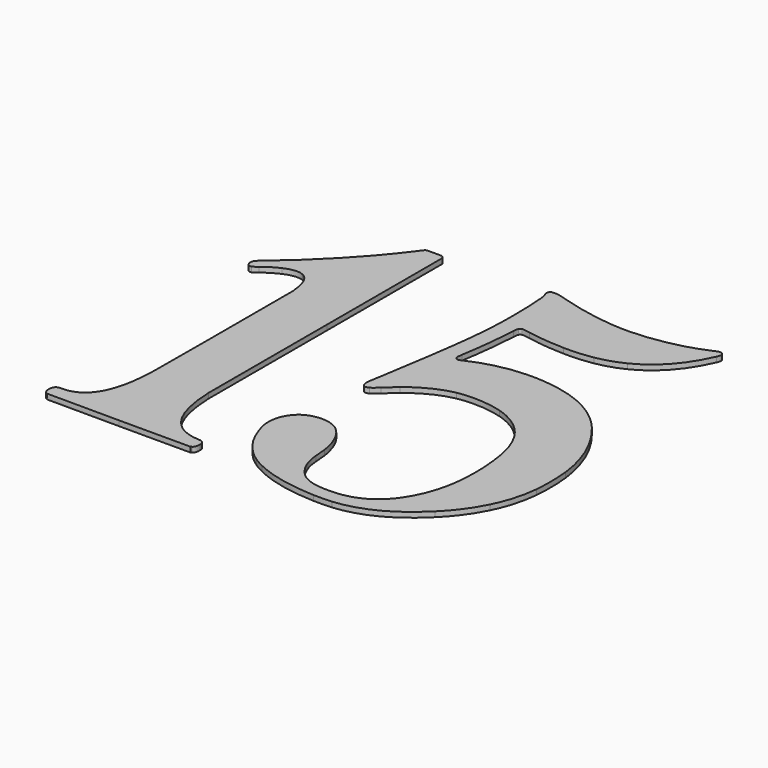
from build123d import *

# Parameters (mm, degrees)
F1_DEPTH = 3


with BuildPart() as f1:
    # F0 (on Top) → F1 (new body)
    with BuildSketch(Plane.XY):
        with BuildLine():
            Line((-24.9749676116, -105.5086148512), (-24.4221198356, -105.1668159472))
            add(Edge.make_bspline(
                [(-22.9280270975, -101.1618743938), (-22.8409736597, -103.1683037275), (-23.3360417907, -104.495337118), (-24.4221198356, -105.1668159472)],
                knots=[0, 0, 0, 0, 1, 1, 1, 1], degree=3))
            add(Edge.make_bspline(
                [(-23.9286103964, -98.3989116804), (-23.2607227611, -99.0023110932), (-22.9892062512, -99.7520678653), (-22.9280270975, -101.1618743938)],
                knots=[0, 0, 0, 0, 1, 1, 1, 1], degree=3))
            add(Edge.make_bspline(
                [(-26.9712664489, -97.6123141569), (-25.2286626116, -97.6944998342), (-24.4997202778, -97.8829498759), (-23.9286103964, -98.3989116804)],
                knots=[0, 0, 0, 0, 1, 1, 1, 1], degree=3))
            add(Edge.make_bspline(
                [(-42.7152474579, -90.0924389353), (-38.8869086879, -94.6798526131), (-33.3802394076, -97.3100327923), (-26.9712664489, -97.6123141569)],
                knots=[0, 0, 0, 0, 1, 1, 1, 1], degree=3))
            add(Edge.make_bspline(
                [(-51.587194383, -59.1471485768), (-50.9801585562, -73.6878099043), (-48.1409620072, -83.5909241028), (-42.7152474579, -90.0924389353)],
                knots=[0, 0, 0, 0, 1, 1, 1, 1], degree=3))
            add(Edge.make_bspline(
                [(-51.526546265, 26.8361350461), (-51.6324040489, -26.1414893441), (-51.6545514788, -57.5337808996), (-51.587194383, -59.1471485768)],
                knots=[0, 0, 0, 0, 1, 1, 1, 1], degree=3))
            add(Edge.make_bspline(
                [(-51.4777906253, 110.7164548895), (-51.395650168, 110.4114122994), (-51.4104563396, 84.927258612), (-51.526546265, 26.8361350461)],
                knots=[0, 0, 0, 0, 1, 1, 1, 1], degree=3))
            add(Edge.make_bspline(
                [(-52.658082486, 112.08199297), (-52.0931837614, 111.8253930807), (-51.6330479347, 111.2930448032), (-51.4777906253, 110.7164548895)],
                knots=[0, 0, 0, 0, 1, 1, 1, 1], degree=3))
            add(Edge.make_bspline(
                [(-57.3497272258, 112.2893193898), (-53.4818821213, 112.2893193898), (-53.0749174941, 112.2713350076), (-52.658082486, 112.08199297)],
                knots=[0, 0, 0, 0, 1, 1, 1, 1], degree=3))
            add(Edge.make_bspline(
                [(-62.0472785871, 112.079343394), (-61.6229214404, 112.2720657319), (-61.236941327, 112.2893193898), (-57.3497272258, 112.2893193898)],
                knots=[0, 0, 0, 0, 1, 1, 1, 1], degree=3))
            add(Edge.make_bspline(
                [(-65.0622759636, 108.5108227417), (-62.672057489, 111.7372511598), (-62.5920627841, 111.831927581), (-62.0472785871, 112.079343394)],
                knots=[0, 0, 0, 0, 1, 1, 1, 1], degree=3))
            add(Edge.make_bspline(
                [(-112.582139181, 58.6482469347), (-94.4993617205, 73.8367702093), (-77.658488667, 91.507895362), (-65.0622759636, 108.5108227417)],
                knots=[0, 0, 0, 0, 1, 1, 1, 1], degree=3))
            add(Edge.make_bspline(
                [(-116.5618967567, 54.7029810678), (-116.1311155587, 55.5788750246), (-115.5469919013, 56.1579372356), (-112.582139181, 58.6482469347)],
                knots=[0, 0, 0, 0, 1, 1, 1, 1], degree=3))
            add(Edge.make_bspline(
                [(-116.9238730162, 53.0594211901), (-116.9248894674, 53.8516047929), (-116.8797230207, 54.0567574479), (-116.5618967567, 54.7029810678)],
                knots=[0, 0, 0, 0, 1, 1, 1, 1], degree=3))
            add(Edge.make_bspline(
                [(-116.6067638705, 51.4769524272), (-116.8695517063, 52.0403264751), (-116.9228917807, 52.3065098179), (-116.9238730162, 53.0594211901)],
                knots=[0, 0, 0, 0, 1, 1, 1, 1], degree=3))
            add(Edge.make_bspline(
                [(-115.4322377688, 50.1067954967), (-115.9262182171, 50.3172777171), (-116.2324873516, 50.6745590929), (-116.6067638705, 51.4769524272)],
                knots=[0, 0, 0, 0, 1, 1, 1, 1], degree=3))
            add(Edge.make_bspline(
                [(-113.8756989146, 50.155525525), (-114.5645926732, 49.9161624861), (-114.9560768295, 49.9039062463), (-115.4322377688, 50.1067954967)],
                knots=[0, 0, 0, 0, 1, 1, 1, 1], degree=3))
            add(Edge.make_bspline(
                [(-111.1480542767, 51.999712449), (-112.2365257839, 51.0194941889), (-113.132375798, 50.4138013582), (-113.8756989146, 50.155525525)],
                knots=[0, 0, 0, 0, 1, 1, 1, 1], degree=3))
            add(Edge.make_bspline(
                [(-102.1957220733, 57.5166963073), (-105.022568741, 56.2777520142), (-109.3782275567, 53.5935246466), (-111.1480542767, 51.999712449)],
                knots=[0, 0, 0, 0, 1, 1, 1, 1], degree=3))
            add(Edge.make_bspline(
                [(-94.8902708216, 59.3258808958), (-97.0508177588, 59.3258808958), (-99.3889335082, 58.746850699), (-102.1957220733, 57.5166963073)],
                knots=[0, 0, 0, 0, 1, 1, 1, 1], degree=3))
            add(Edge.make_bspline(
                [(-90.9390971326, 58.4756727394), (-92.2657399498, 59.1120083706), (-93.259670696, 59.3258808958), (-94.8902708216, 59.3258808958)],
                knots=[0, 0, 0, 0, 1, 1, 1, 1], degree=3))
            add(Edge.make_bspline(
                [(-84.2228758047, 43.232071419), (-84.9117779671, 51.6382904354), (-87.1164152734, 56.6420921229), (-90.9390971326, 58.4756727394)],
                knots=[0, 0, 0, 0, 1, 1, 1, 1], degree=3))
            add(Edge.make_bspline(
                [(-84.2261736685, -15.0444632397), (-84.0706466394, 35.4298340737), (-84.07031009, 41.3703731227), (-84.2228758047, 43.232071419)],
                knots=[0, 0, 0, 0, 1, 1, 1, 1], degree=3))
            add(Edge.make_bspline(
                [(-84.8578688401, -65.8105508614), (-84.3655383241, -60.1810378582), (-84.3651609566, -60.1507248041), (-84.2261736685, -15.0444632397)],
                knots=[0, 0, 0, 0, 1, 1, 1, 1], degree=3))
            add(Edge.make_bspline(
                [(-102.1929108256, -96.9631404276), (-92.2759993033, -94.8331670602), (-86.4860779044, -84.4281749082), (-84.8578688401, -65.8105508614)],
                knots=[0, 0, 0, 0, 1, 1, 1, 1], degree=3))
            add(Edge.make_bspline(
                [(-106.3652542786, -97.3652148844), (-104.3238330141, -97.318751462), (-103.461803611, -97.2356849938), (-102.1929108256, -96.9631404276)],
                knots=[0, 0, 0, 0, 1, 1, 1, 1], degree=3))
            add(Edge.make_bspline(
                [(-109.3490838216, -98.1267284746), (-108.6864773303, -97.5434888095), (-108.1468390172, -97.4057596798), (-106.3652542786, -97.3652148844)],
                knots=[0, 0, 0, 0, 1, 1, 1, 1], degree=3))
            add(Edge.make_bspline(
                [(-110.4958055826, -102.0360900057), (-110.6429741019, -100.4120383866), (-110.1896665058, -98.8666484807), (-109.3490838216, -98.1267284746)],
                knots=[0, 0, 0, 0, 1, 1, 1, 1], degree=3))
            add(Edge.make_bspline(
                [(-108.2985127361, -105.4094768498), (-109.6725649955, -104.9173904422), (-110.3255532178, -103.914898296), (-110.4958055826, -102.0360900057)],
                knots=[0, 0, 0, 0, 1, 1, 1, 1], degree=3))
            add(Edge.make_bspline(
                [(-66.4324521026, -105.5322077227), (-100.1377234512, -105.5513958391), (-107.966332101, -105.5284808686), (-108.2985127361, -105.4094768498)],
                knots=[0, 0, 0, 0, 1, 1, 1, 1], degree=3))
            Line((-66.4324521026, -105.5322077227), (-24.9749676116, -105.5086148512))
        make_face()
    extrude(amount=F1_DEPTH)


with BuildPart() as f1b:
    # F0 (on Top) → F1, piece 2 (new body)
    with BuildSketch(Plane.XY):
        with BuildLine():
            add(Edge.make_bspline(
                [(48.4811159385, -107.7090506927), (34.0461319148, -107.1817834704), (22.0135977945, -104.5645462358), (12.1502156307, -99.8065724566)],
                knots=[0, 0, 0, 0, 1, 1, 1, 1], degree=3))
            add(Edge.make_bspline(
                [(58.8427848619, -107.5369995295), (56.5669735658, -107.7542715636), (51.859291308, -107.8324478613), (48.4811159385, -107.7090506927)],
                knots=[0, 0, 0, 0, 1, 1, 1, 1], degree=3))
            add(Edge.make_bspline(
                [(101.4468714609, -85.8007565149), (88.2155688792, -98.9744715369), (74.3308350785, -106.0583452436), (58.8427848619, -107.5369995295)],
                knots=[0, 0, 0, 0, 1, 1, 1, 1], degree=3))
            add(Edge.make_bspline(
                [(116.7308294932, -64.9070386466), (112.849928594, -72.7041449144), (108.1562169369, -79.1206055965), (101.4468714609, -85.8007565149)],
                knots=[0, 0, 0, 0, 1, 1, 1, 1], degree=3))
            add(Edge.make_bspline(
                [(123.852989793, -39.891046748), (122.9661925969, -48.8636787613), (120.6274173549, -57.0784107882), (116.7308294932, -64.9070386466)],
                knots=[0, 0, 0, 0, 1, 1, 1, 1], degree=3))
            add(Edge.make_bspline(
                [(123.6309740536, -18.6020422357), (124.3605602731, -24.6480516967), (124.4559033902, -33.7906683559), (123.852989793, -39.891046748)],
                knots=[0, 0, 0, 0, 1, 1, 1, 1], degree=3))
            add(Edge.make_bspline(
                [(110.9892923692, 15.731417528), (117.8945756103, 5.3060295235), (122.1359777143, -6.2131743603), (123.6309740536, -18.6020422357)],
                knots=[0, 0, 0, 0, 1, 1, 1, 1], degree=3))
            add(Edge.make_bspline(
                [(105.7470244409, 22.8246878053), (107.3598162624, 20.8890374862), (109.4153289813, 18.1077446371), (110.9892923692, 15.731417528)],
                knots=[0, 0, 0, 0, 1, 1, 1, 1], degree=3))
            add(Edge.make_bspline(
                [(60.9538862532, 44.9176543481), (79.9645831614, 43.2135279886), (94.894353191, 35.8498316855), (105.7470244409, 22.8246878053)],
                knots=[0, 0, 0, 0, 1, 1, 1, 1], degree=3))
            add(Edge.make_bspline(
                [(18.5347033219, 37.8021069834), (31.5894823554, 43.9009286846), (45.7666039294, 46.2790497899), (60.9538862532, 44.9176543481)],
                knots=[0, 0, 0, 0, 1, 1, 1, 1], degree=3))
            add(Edge.make_bspline(
                [(16.3803127171, 37.0773208943), (16.8845629236, 37.0773208943), (17.2345154465, 37.1946981911), (18.5347033219, 37.8021069834)],
                knots=[0, 0, 0, 0, 1, 1, 1, 1], degree=3))
            add(Edge.make_bspline(
                [(14.8138710676, 38.0205759487), (15.0984885923, 37.377139966), (15.5954879805, 37.0778627348), (16.3803127171, 37.0773208943)],
                knots=[0, 0, 0, 0, 1, 1, 1, 1], degree=3))
            add(Edge.make_bspline(
                [(14.8601872246, 42.1026809503), (14.4283423546, 39.5377333238), (14.4212047866, 38.9082767458), (14.8138710676, 38.0205759487)],
                knots=[0, 0, 0, 0, 1, 1, 1, 1], degree=3))
            add(Edge.make_bspline(
                [(18.5914553107, 74.8668361938), (17.9059154407, 64.0618477074), (16.5442886963, 52.1054185656), (14.8601872246, 42.1026809503)],
                knots=[0, 0, 0, 0, 1, 1, 1, 1], degree=3))
            add(Edge.make_bspline(
                [(18.9832295958, 77.8208092853), (18.7872914306, 77.436726414), (18.72442953, 76.9628272785), (18.5914553107, 74.8668361938)],
                knots=[0, 0, 0, 0, 1, 1, 1, 1], degree=3))
            add(Edge.make_bspline(
                [(20.387411628, 78.8564893616), (19.6792161025, 78.7135831341), (19.2935857443, 78.4291552936), (18.9832295958, 77.8208092853)],
                knots=[0, 0, 0, 0, 1, 1, 1, 1], degree=3))
            add(Edge.make_bspline(
                [(24.9828096496, 78.3103693717), (21.0662765355, 78.986325388), (21.0439598304, 78.9889769649), (20.387411628, 78.8564893616)],
                knots=[0, 0, 0, 0, 1, 1, 1, 1], degree=3))
            add(Edge.make_bspline(
                [(46.6701389544, 76.1857627862), (39.5339740388, 76.2874215064), (32.9887065871, 76.9286305006), (24.9828096496, 78.3103693717)],
                knots=[0, 0, 0, 0, 1, 1, 1, 1], degree=3))
            add(Edge.make_bspline(
                [(63.2691358537, 77.353101698), (57.8036668598, 76.4017642563), (53.3742324995, 76.0902591979), (46.6701389544, 76.1857627862)],
                knots=[0, 0, 0, 0, 1, 1, 1, 1], degree=3))
            add(Edge.make_bspline(
                [(78.8547201598, 82.4169236248), (73.9084656141, 79.9446295217), (69.0052181566, 78.351544847), (63.2691358537, 77.353101698)],
                knots=[0, 0, 0, 0, 1, 1, 1, 1], degree=3))
            add(Edge.make_bspline(
                [(106.1840984318, 112.8025051621), (99.9463186555, 98.528364127), (90.8462912991, 88.4106943002), (78.8547201598, 82.4169236248)],
                knots=[0, 0, 0, 0, 1, 1, 1, 1], degree=3))
            add(Edge.make_bspline(
                [(106.7487934661, 115.887623261), (107.09054715, 115.0931998641), (107.0223768933, 114.7207913743), (106.1840984318, 112.8025051621)],
                knots=[0, 0, 0, 0, 1, 1, 1, 1], degree=3))
            add(Edge.make_bspline(
                [(104.4502472793, 117.3497598158), (105.4232847522, 117.4605621943), (106.3165872356, 116.8923219866), (106.7487934661, 115.887623261)],
                knots=[0, 0, 0, 0, 1, 1, 1, 1], degree=3))
            add(Edge.make_bspline(
                [(100.651950243, 115.8563693893), (103.6951033162, 117.1924403911), (103.950481063, 117.2928489565), (104.4502472793, 117.3497598158)],
                knots=[0, 0, 0, 0, 1, 1, 1, 1], degree=3))
            add(Edge.make_bspline(
                [(59.7680267213, 107.3612513159), (73.928828652, 107.6295223853), (89.0883842696, 110.7794692578), (100.651950243, 115.8563693893)],
                knots=[0, 0, 0, 0, 1, 1, 1, 1], degree=3))
            add(Edge.make_bspline(
                [(17.9241211211, 113.9285557485), (33.075036904, 109.3967783643), (47.5225913069, 107.1292663517), (59.7680267213, 107.3612513159)],
                knots=[0, 0, 0, 0, 1, 1, 1, 1], degree=3))
            add(Edge.make_bspline(
                [(9.9111546459, 115.682450197), (11.6716932434, 115.682450197), (13.120881251, 115.3652486103), (17.9241211211, 113.9285557485)],
                knots=[0, 0, 0, 0, 1, 1, 1, 1], degree=3))
            add(Edge.make_bspline(
                [(7.376588504, 114.9450565122), (7.8350868038, 115.4672594868), (8.5747358897, 115.682450197), (9.9111546459, 115.682450197)],
                knots=[0, 0, 0, 0, 1, 1, 1, 1], degree=3))
            add(Edge.make_bspline(
                [(6.9379898363, 113.2089331512), (6.8695938794, 114.1647497808), (6.9416038403, 114.4495854023), (7.376588504, 114.9450565122)],
                knots=[0, 0, 0, 0, 1, 1, 1, 1], degree=3))
            add(Edge.make_bspline(
                [(7.4146373916, 111.4957039515), (7.1099845745, 112.182662051), (6.9772924804, 112.6596057377), (6.9379898363, 113.2089331512)],
                knots=[0, 0, 0, 0, 1, 1, 1, 1], degree=3))
            add(Edge.make_bspline(
                [(8.2078422476, 107.2684933462), (7.9989275229, 110.0704437639), (7.9638711635, 110.2572414722), (7.4146373916, 111.4957039515)],
                knots=[0, 0, 0, 0, 1, 1, 1, 1], degree=3))
            add(Edge.make_bspline(
                [(8.9723827813, 86.6006533315), (8.9710273797, 94.44730599), (8.7812787617, 99.577564204), (8.2078422476, 107.2684933462)],
                knots=[0, 0, 0, 0, 1, 1, 1, 1], degree=3))
            add(Edge.make_bspline(
                [(7.5853223484, 59.1000030422), (8.5730079228, 68.7190211474), (8.9740543232, 76.6705027332), (8.9723827813, 86.6006533315)],
                knots=[0, 0, 0, 0, 1, 1, 1, 1], degree=3))
            add(Edge.make_bspline(
                [(-0.6088097354, 2.74343174), (2.7544462122, 22.6603844809), (6.4619405466, 48.1592855138), (7.5853223484, 59.1000030422)],
                knots=[0, 0, 0, 0, 1, 1, 1, 1], degree=3))
            add(Edge.make_bspline(
                [(-1.9267855058, -5.0875335558), (-1.8574747429, -4.6627814338), (-1.2643871069, -1.1388469706), (-0.6088097354, 2.74343174)],
                knots=[0, 0, 0, 0, 1, 1, 1, 1], degree=3))
            add(Edge.make_bspline(
                [(-1.5893125218, -8.4902958379), (-1.9149946726, -7.5967900643), (-2.0742389516, -5.9911134007), (-1.9267855058, -5.0875335558)],
                knots=[0, 0, 0, 0, 1, 1, 1, 1], degree=3))
            add(Edge.make_bspline(
                [(2.211198297, -9.3926899565), (0.285542814, -10.3791557896), (-1.0132220298, -10.0707757181), (-1.5893125218, -8.4902958379)],
                knots=[0, 0, 0, 0, 1, 1, 1, 1], degree=3))
            add(Edge.make_bspline(
                [(6.2349329915, -6.1289669857), (3.9425987619, -8.371122544), (3.4921412308, -8.7364915094), (2.211198297, -9.3926899565)],
                knots=[0, 0, 0, 0, 1, 1, 1, 1], degree=3))
            add(Edge.make_bspline(
                [(12.7119857668, -0.3195873504), (10.5336857501, -2.0760937583), (8.6641271651, -3.7529444117), (6.2349329915, -6.1289669857)],
                knots=[0, 0, 0, 0, 1, 1, 1, 1], degree=3))
            add(Edge.make_bspline(
                [(36.2498316049, 11.3826893884), (28.2539639188, 9.7634262946), (20.3316196653, 5.824679321), (12.7119857668, -0.3195873504)],
                knots=[0, 0, 0, 0, 1, 1, 1, 1], degree=3))
            add(Edge.make_bspline(
                [(62.4113979553, 9.9184350937), (54.5747745481, 12.3084166632), (43.7991274846, 12.9115335506), (36.2498316049, 11.3826893884)],
                knots=[0, 0, 0, 0, 1, 1, 1, 1], degree=3))
            add(Edge.make_bspline(
                [(75.6380700818, 3.1441167801), (71.982640856, 6.0564629959), (67.431492074, 8.387422369), (62.4113979553, 9.9184350937)],
                knots=[0, 0, 0, 0, 1, 1, 1, 1], degree=3))
            add(Edge.make_bspline(
                [(80.9550923891, -2.1694151781), (79.8249679946, -0.7419676197), (77.109032954, 1.9721714238), (75.6380700818, 3.1441167801)],
                knots=[0, 0, 0, 0, 1, 1, 1, 1], degree=3))
            add(Edge.make_bspline(
                [(91.1561620321, -31.4206204338), (90.0039242229, -18.7638724624), (86.7845749468, -9.5325084136), (80.9550923891, -2.1694151781)],
                knots=[0, 0, 0, 0, 1, 1, 1, 1], degree=3))
            add(Edge.make_bspline(
                [(91.8502400917, -44.8603631296), (91.8489975402, -39.8503999073), (91.7512941756, -37.9579371566), (91.1561620321, -31.4206204338)],
                knots=[0, 0, 0, 0, 1, 1, 1, 1], degree=3))
            add(Edge.make_bspline(
                [(90.9863806764, -58.2436367621), (91.6348765048, -53.6745192048), (91.8515502733, -50.3176440893), (91.8502400917, -44.8603631296)],
                knots=[0, 0, 0, 0, 1, 1, 1, 1], degree=3))
            add(Edge.make_bspline(
                [(81.1675983077, -84.6675375469), (86.0749791998, -77.6785327468), (89.5585833628, -68.3035889715), (90.9863806764, -58.2436367621)],
                knots=[0, 0, 0, 0, 1, 1, 1, 1], degree=3))
            add(Edge.make_bspline(
                [(58.5821667892, -99.3437254265), (67.8532516678, -97.7946879017), (75.3882716112, -92.8983639171), (81.1675983077, -84.6675375469)],
                knots=[0, 0, 0, 0, 1, 1, 1, 1], degree=3))
            add(Edge.make_bspline(
                [(51.6151509487, -99.8841048686), (55.1075866314, -99.8164320327), (56.3122168946, -99.7229973626), (58.5821667892, -99.3437254265)],
                knots=[0, 0, 0, 0, 1, 1, 1, 1], degree=3))
            add(Edge.make_bspline(
                [(36.897876033, -97.3133758761), (40.9644937607, -99.318314148), (44.9437191002, -100.0133862488), (51.6151509487, -99.8841048686)],
                knots=[0, 0, 0, 0, 1, 1, 1, 1], degree=3))
            add(Edge.make_bspline(
                [(32.312879428, -93.9688222294), (33.7876483895, -95.4900318031), (35.0138838419, -96.3845200127), (36.897876033, -97.3133758761)],
                knots=[0, 0, 0, 0, 1, 1, 1, 1], degree=3))
            add(Edge.make_bspline(
                [(25.0957261665, -76.8903537214), (25.5015722972, -83.5575957103), (28.037697131, -89.5589941712), (32.312879428, -93.9688222294)],
                knots=[0, 0, 0, 0, 1, 1, 1, 1], degree=3))
            add(Edge.make_bspline(
                [(24.4656393087, -69.8763554282), (24.7455247331, -71.8475363172), (24.8796174488, -73.3402288339), (25.0957261665, -76.8903537214)],
                knots=[0, 0, 0, 0, 1, 1, 1, 1], degree=3))
            add(Edge.make_bspline(
                [(14.1033605146, -49.5348866702), (19.2838506235, -53.0018546494), (23.1461952866, -60.5837329905), (24.4656393087, -69.8763554282)],
                knots=[0, 0, 0, 0, 1, 1, 1, 1], degree=3))
            add(Edge.make_bspline(
                [(0.7355257345, -47.1850097008), (5.7176157855, -46.2235709758), (10.3801335975, -47.0431695464), (14.1033605146, -49.5348866702)],
                knots=[0, 0, 0, 0, 1, 1, 1, 1], degree=3))
            add(Edge.make_bspline(
                [(-11.0549969714, -56.785289089), (-8.737183433, -51.4413084165), (-4.8285842402, -48.2587774819), (0.7355257345, -47.1850097008)],
                knots=[0, 0, 0, 0, 1, 1, 1, 1], degree=3))
            add(Edge.make_bspline(
                [(-12.5585427052, -64.2294042853), (-12.5558323022, -61.4020665997), (-12.1186114461, -59.2375563034), (-11.0549969714, -56.785289089)],
                knots=[0, 0, 0, 0, 1, 1, 1, 1], degree=3))
            add(Edge.make_bspline(
                [(-10.6568078392, -73.6862624175), (-12.1305039245, -69.3510982981), (-12.5614563984, -67.2081031511), (-12.5585427052, -64.2294042853)],
                knots=[0, 0, 0, 0, 1, 1, 1, 1], degree=3))
            add(Edge.make_bspline(
                [(0.0740421416, -91.3977430815), (-4.7622664057, -86.5593111918), (-8.2218086891, -80.8492388331), (-10.6568078392, -73.6862624175)],
                knots=[0, 0, 0, 0, 1, 1, 1, 1], degree=3))
            add(Edge.make_bspline(
                [(6.4043417819, -96.5881263814), (4.0909101884, -95.0611234364), (2.1228574878, -93.4474508239), (0.0740421416, -91.3977430815)],
                knots=[0, 0, 0, 0, 1, 1, 1, 1], degree=3))
            add(Edge.make_bspline(
                [(12.1502156307, -99.8065724566), (9.5842751637, -98.5687946813), (8.400583794, -97.9057748065), (6.4043417819, -96.5881263814)],
                knots=[0, 0, 0, 0, 1, 1, 1, 1], degree=3))
        make_face()
    extrude(amount=F1_DEPTH)


solid = Compound([f1.part, f1b.part])
